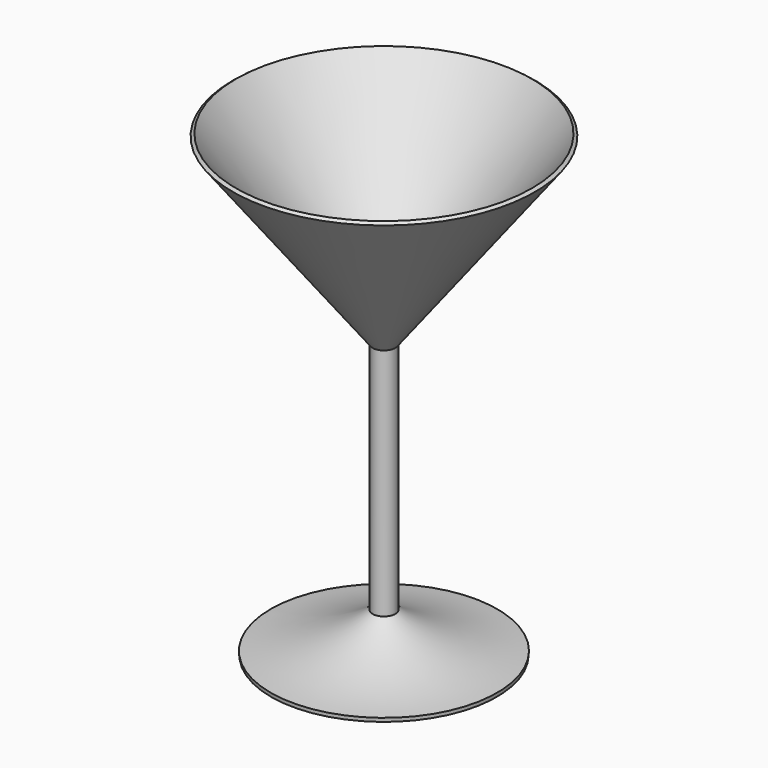
from build123d import *


with BuildPart() as f1:
    # F0 (on Front) → F1 (revolve)
    with BuildSketch(Plane.XZ):
        with BuildLine():
            Line((-39.205529, 93.758564), (-40, 93.151263))
            Line((-40, 93.151263), (-3, 44.747897))
            Line((-3, 44.747897), (-3, -17.268907))
            ThreePointArc((-3, -17.268907), (-15.880826, -23.803916), (-30, -26.848737))
            Line((-30, -26.848737), (-29.916253, -27.845224))
            ThreePointArc((-29.916253, -27.845224), (-15.296707, -24.657094), (-2, -17.794671))
            Line((-2, -17.794671), (-2, 45.086327))
            Line((-2, 45.086327), (-39.205529, 93.758564))
        make_face()
    revolve(axis=Axis((0, 0, 33.025213), (0, 0, -1)))


solid = f1.part
